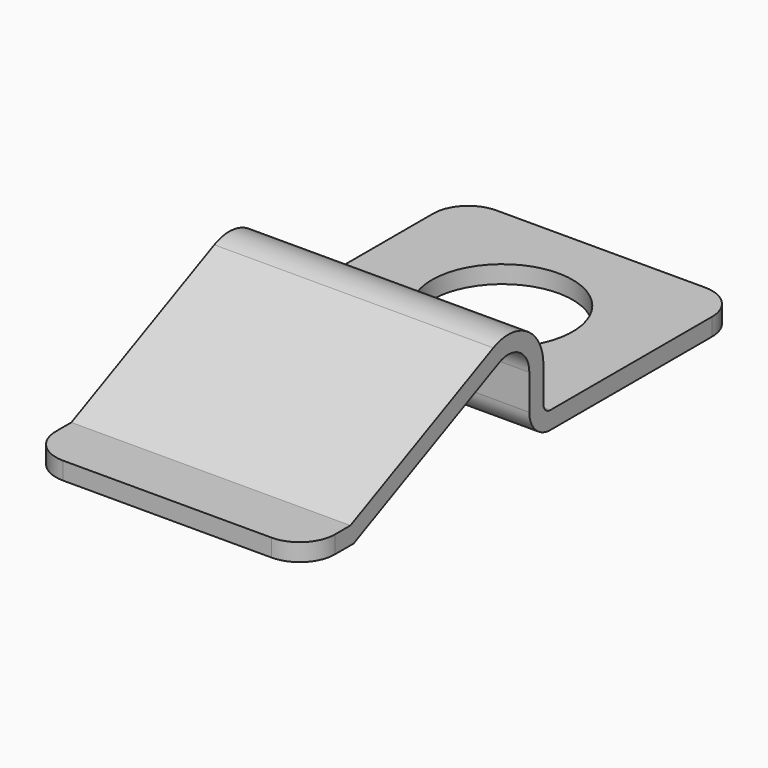
from build123d import *

# Parameters (mm, degrees)
F1_DEPTH = 3.175
F2_R     = 0.8
F4_D     = 3.2


with BuildPart() as f1:
    # F0 (on Right) → F1 (new body, symmetric)
    with BuildSketch(Plane.YZ):
        with BuildLine():
            Line((-5.4, 0), (0, 0))
            Line((0, 0), (0, 0.4))
            Line((0, 0.4), (-5.4, 0.4))
            ThreePointArc((-5.4, 0.4), (-5.541421, 0.458579), (-5.6, 0.6))
            Line((-5.6, 0.6), (-5.6, 1.4))
            ThreePointArc((-5.6, 1.4), (-6.063558, 2.243937), (-7.02446, 2.305447))
            Line((-7.02446, 2.305447), (-11.089105, 0.4))
            Line((-11.089105, 0.4), (-12.33, 0.4))
            Line((-12.33, 0.4), (-12.33, 0))
            Line((-12.33, 0), (-11, 0))
            Line((-11, 0), (-6.854676, 1.943268))
            ThreePointArc((-6.854676, 1.943268), (-6.278135, 1.906362), (-6, 1.4))
            Line((-6, 1.4), (-6, 0.6))
            ThreePointArc((-6, 0.6), (-5.824264, 0.175736), (-5.4, 0))
        make_face()
    extrude(amount=F1_DEPTH, both=True)

    # F2
    f2_edges = [f1.edges().sort_by_distance(p)[0] for p in [
        (3.175, -12.33, 0.2),
        (-3.175, -12.33, 0.2),
        (3.175, 0, 0.2),
        (-3.175, 0, 0.2),
    ]]
    fillet(f2_edges, radius=F2_R)

    # F4 (through all)
    with Locations(Plane.XY.offset(0.4)):
        with Locations((0, -2.8)):
            Hole(F4_D / 2)


solid = f1.part
